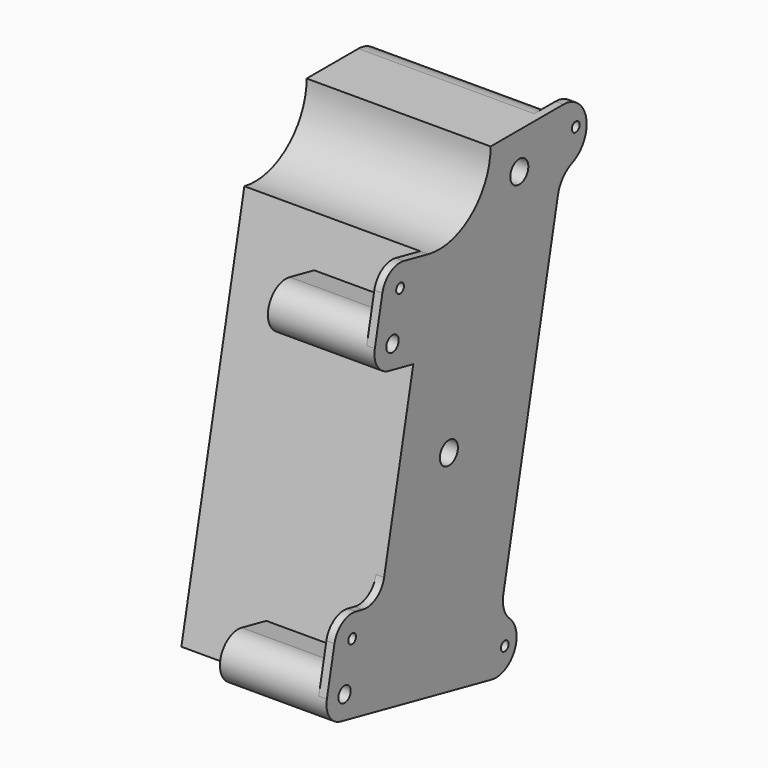
from build123d import *

# Parameters (mm, degrees)
PAD009_DEPTH    = 57
SKETCH031_R     = 3.5
POCKET005_DEPTH = 7.5
THICKNESS_T     = -2.5
SKETCH032_R     = 1.5
PAD010_DEPTH    = 2.5
SKETCH033_R     = 2.4
PAD011_DEPTH    = 33
PAD012_DEPTH    = 2.5
PAD013_DEPTH    = 5
PAD014_DEPTH    = 5


with BuildPart() as part:
    # Sketch030 → Pad009 (new body)
    with BuildSketch(Plane(origin=(0, 0, 0), x_dir=(0, -1, 0), z_dir=(-1, 0, 0))):
        with BuildLine():
            Line((-56.9812455945, -19.1666932293), (-85.3849313131, 115.5624248602))
            ThreePointArc((-76.5785062018, 126.4190014838), (-83.5681124, 123.0886932914), (-85.3849313131, 115.5624248602))
            Line((-76.5785062018, 126.4190014838), (-56.5746674209, 126.4190014838))
            ThreePointArc((-56.5746674209, 126.4190014838), (-49.173982549, 110.8865432655), (-32.4489415907, 106.8491679032))
            Line((-32.4489415907, 106.8491679032), (-8.0566616429, -8.8523786537))
            Line((-8.0566616429, -8.8523786537), (-56.9812455945, -19.1666932293))
        make_face()
    extrude(amount=PAD009_DEPTH)

    # Sketch031 → Pocket005 (cut)
    with BuildSketch(Plane.YZ):
        with Locations((40.4092527683, 49.4266176238)):
            Circle(SKETCH031_R)
        with Locations((67.6714613195, 115.017708736)):
            Circle(SKETCH031_R)
    extrude(amount=-POCKET005_DEPTH, mode=Mode.SUBTRACT)

    # Thickness
    thickness_openings = [part.faces().sort_by_distance(p)[0] for p in [
        (-57, 47.670985, 52.690427),
    ]]
    offset(amount=THICKNESS_T, openings=thickness_openings)

    # Sketch032 → Pad010 (join)
    with BuildSketch(Plane(origin=(0, 0, 0), x_dir=(0, -1, 0), z_dir=(-1, 0, 0))):
        with BuildLine():
            ThreePointArc((-76.5785062018, 126.4190014838), (-83.5681124, 123.0886932914), (-85.3849313131, 115.5624248602))
            Line((-85.3849313131, 115.5624248602), (-82.6454361548, 102.5679927173))
            ThreePointArc((-82.6454361548, 102.5679927173), (-84.5605229517, 106.5001513818), (-88.1031081238, 109.0652087887))
            ThreePointArc((-84.7543549815, 126.4190014838), (-93.5913265854, 119.1242677012), (-88.1031081238, 109.0652087887))
            Line((-84.7543549815, 126.4190014838), (-76.5785062018, 126.4190014838))
        make_face()
        with Locations((-89.5482969155, 118.3440861841)):
            Circle(SKETCH032_R, mode=Mode.SUBTRACT)
        with BuildLine():
            ThreePointArc((-14.6548301134, 103.446667091), (-17.6820502047, 107.8670148106), (-22.9482759072, 108.8521048036))
            Line((-32.4489415907, 106.8491679032), (-22.9482759072, 108.8521048036))
            Line((-32.4489415907, 106.8491679032), (-29.5104359602, 92.9107559656))
            Line((-29.5104359602, 92.9107559656), (-20.0097702767, 94.9136928661))
            ThreePointArc((-11.7163244829, 89.5082551534), (-14.7435445743, 93.928602873), (-20.0097702767, 94.9136928661))
            Line((-14.6548301134, 103.446667091), (-11.7163244829, 89.5082551534))
        make_face()
        with Locations((-21.5042718666, 102.0026630504)):
            Circle(SKETCH032_R, mode=Mode.SUBTRACT)
        with BuildLine():
            ThreePointArc((-15.3271793951, 25.6343585435), (-12.2999593038, 21.2140108239), (-7.0337336013, 20.2289208309))
            Line((-7.0337336013, 20.2289208309), (-4.382509671, 20.7878536908))
            ThreePointArc((3.9109361228, 15.3824159782), (0.8837160314, 19.8027636978), (-4.382509671, 20.7878536908))
            Line((3.9109361228, 15.3824159782), (6.8494417532, 1.4440040406))
            ThreePointArc((6.8494417532, 1.4440040406), (3.8222216619, 5.8643517602), (-1.4440040406, 6.8494417532))
            Line((-10.9446697241, 4.8465048527), (-1.4440040406, 6.8494417532))
            Line((-15.3271793951, 25.6343585435), (-10.9446697241, 4.8465048527))
        make_face()
        with Locations((-2.9385056304, 13.9384119376)):
            Circle(SKETCH032_R, mode=Mode.SUBTRACT)
        with BuildLine():
            ThreePointArc((-63.9746959939, -5.3847157517), (-65.7656124274, -14.9588361058), (-56.9812455945, -19.1666932293))
            Line((-61.489922629, 2.2196186258), (-56.9812455945, -19.1666932293))
            ThreePointArc((-63.9746959939, -5.3847157517), (-61.7135216838, -1.9154450712), (-61.489922629, 2.2196186258))
        make_face()
        with Locations((-62.0562568032, -12.0607618174)):
            Circle(SKETCH032_R, mode=Mode.SUBTRACT)
    extrude(amount=PAD010_DEPTH)

    # Sketch033 → Pad011 (join)
    with BuildSketch(Plane(origin=(0, 0, 0), x_dir=(0, -1, 0), z_dir=(-1, 0, 0))):
        with BuildLine():
            Line((-29.5104359602, 92.9107559656), (-20.0097702767, 94.9136928661))
            ThreePointArc((-17.1217621955, 81.2148093596), (-11.7163244829, 89.5082551534), (-20.0097702767, 94.9136928661))
            Line((-17.1217621955, 81.2148093596), (-26.6224278791, 79.2118724591))
            Line((-29.5104359602, 92.9107559656), (-26.6224278791, 79.2118724591))
        make_face()
        with Locations((-18.5657662361, 88.0642511128)):
            Circle(SKETCH033_R, mode=Mode.SUBTRACT)
        with BuildLine():
            Line((-10.9446697241, 4.8465048527), (-1.4440040406, 6.8494417532))
            ThreePointArc((1.4440040406, -6.8494417532), (6.8494417532, 1.4440040406), (-1.4440040406, 6.8494417532))
            Line((1.4440040406, -6.8494417532), (-8.0566616429, -8.8523786537))
            Line((-10.9446697241, 4.8465048527), (-8.0566616429, -8.8523786537))
        make_face()
        Circle(SKETCH033_R, mode=Mode.SUBTRACT)
    extrude(amount=PAD011_DEPTH)

    # Sketch035 (on Face2 of Pad011) → Pad012 (join)
    with BuildSketch(Plane(origin=(-2.5, 0, 0), x_dir=(0, -1, 0), z_dir=(-1, 0, 0))):
        with BuildLine():
            Line((-47.3206478613, -14.5750866), (-55.0507321257, -16.204748303))
            Line((-55.0507321257, -16.204748303), (-82.9387021155, 116.0781405889))
            ThreePointArc((-76.5785062018, 123.9190014838), (-81.6265551227, 121.5137789004), (-82.9387021155, 116.0781405889))
            Line((-76.5785062018, 123.9190014838), (-76.5180671542, 123.9190014838))
            Line((-76.5180671542, 123.9190014838), (-47.3206478613, -14.5750866))
        make_face()
        Polygon((-77.2796270866, 112.9884644786), (-79.1387612768, 112.5965205247), (-53.7655474207, -7.7579559962), (-51.9064132305, -7.3660120423), align=None, mode=Mode.SUBTRACT)
    extrude(amount=PAD012_DEPTH)

    # Sketch037 (on Face2 of Pad011) → Pad013 (join)
    with BuildSketch(Plane(origin=(-2.5, 0, 0), x_dir=(0, -1, 0), z_dir=(-1, 0, 0))):
        Polygon((-20.1983465416, 36.621014532), (-27.5370341343, 35.0738673456), (-30.3218990697, 48.2835050126), (-22.983211477, 49.8306521989), align=None)
        Polygon((-39.089066459, 89.8694013714), (-31.7503788663, 91.4165485578), (-28.9655139309, 78.2069108908), (-36.3042015236, 76.6597637045), align=None)
    extrude(amount=PAD013_DEPTH)

    # Sketch036 (on Face2 of Pad011) → Pad014 (join)
    with BuildSketch(Plane(origin=(-7.5, 0, 0), x_dir=(0, -1, 0), z_dir=(-1, 0, 0))):
        Polygon((-20.1983465416, 36.621014532), (-27.5370341343, 35.0738673456), (-30.3218990697, 48.2835050126), (-27.3864240326, 48.9023638871), (-25.6329905548, 40.5851846153), (-24.1652530362, 40.8946140526), (-25.9186865141, 49.2117933244), (-22.983211477, 49.8306521989), align=None)
        Polygon((-39.089066459, 89.8694013714), (-31.7503788663, 91.4165485578), (-28.9655139309, 78.2069108908), (-31.900988968, 77.5880520163), (-33.6544224458, 85.9052312881), (-35.1221599644, 85.5958018508), (-33.3687264865, 77.278622579), (-36.3042015236, 76.6597637045), align=None)
    extrude(amount=PAD014_DEPTH)


solid = part.part
